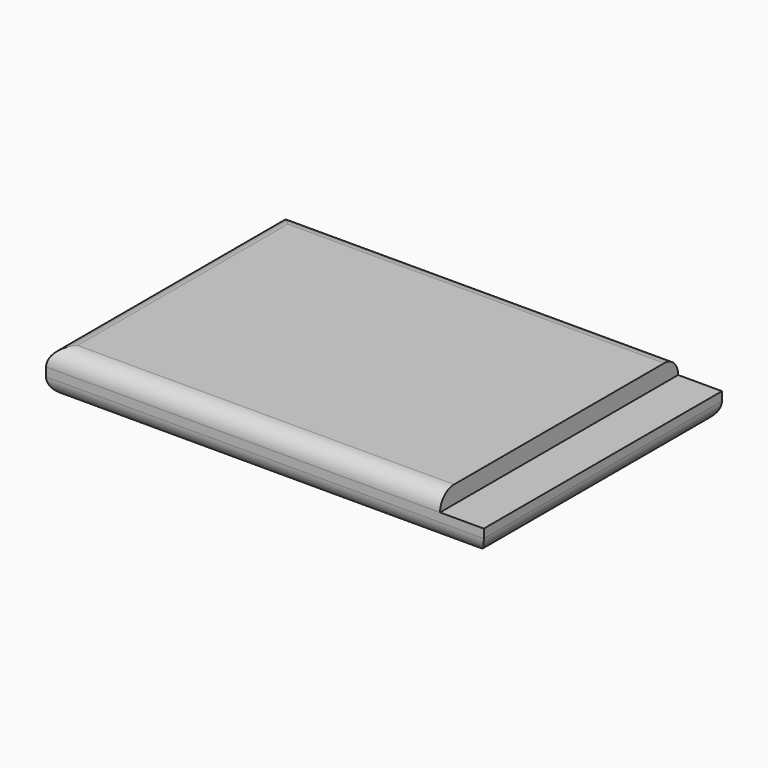
from build123d import *

# Parameters (mm, degrees)
F0_W     = 50
F0_H     = 34
F1_DEPTH = 5
F2_W     = 5
F2_H     = 34
F3_DEPTH = 2
F4_R     = 2


with BuildPart() as f1:
    # F0 (on Top) → F1 (new body)
    with BuildSketch(Plane.XY):
        Rectangle(F0_W, F0_H)
    extrude(amount=F1_DEPTH)

    # F2 (on face) → F3 (cut)
    with BuildSketch(Plane.XY.offset(5)):
        with Locations((22.5, 0)):
            Rectangle(F2_W, F2_H)
    extrude(amount=-F3_DEPTH, mode=Mode.SUBTRACT)

    # F4
    f4_edges = [f1.edges().sort_by_distance(p)[0] for p in [
        (-2.5, 17, 5),
        (-2.5, -17, 5),
        (0, -17, 0),
        (0, 17, 0),
        (-25, 0, 0),
        (-25, 0, 5),
        (25, 0, 0),
    ]]
    fillet(f4_edges, radius=F4_R)


solid = f1.part
